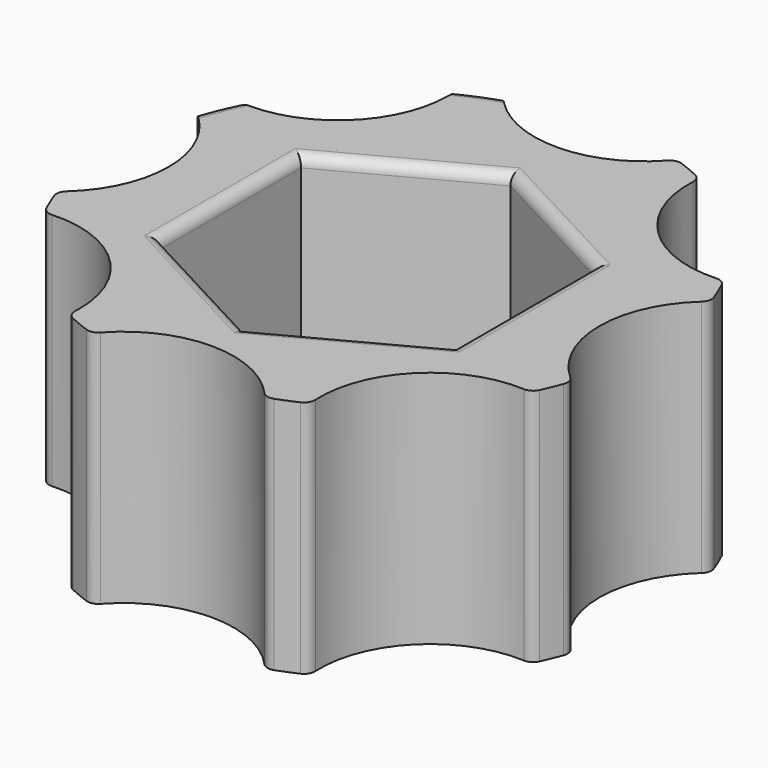
from build123d import *

# Parameters (mm, degrees)
F1_DEPTH = 6.6
F2_R     = 0.3


with BuildPart() as f1:
    # F0 (on Top) → F1 (new body)
    with BuildSketch(Plane.XY):
        with BuildLine():
            ThreePointArc((7.1081944444, -2.3923987418), (5.95, 0), (7.1081944444, 2.3923987418))
            ThreePointArc((7.1081944444, 2.3923987418), (6.9290964938, 2.8701257427), (6.7179338673, 3.33457112))
            ThreePointArc((6.7179338673, 3.33457112), (4.2072853481, 4.2072853481), (3.33457112, 6.7179338673))
            ThreePointArc((3.33457112, 6.7179338673), (2.8701257427, 6.9290964938), (2.3923987418, 7.1081944444))
            ThreePointArc((2.3923987418, 7.1081944444), (0, 5.95), (-2.3923987418, 7.1081944444))
            ThreePointArc((-2.3923987418, 7.1081944444), (-2.8701257427, 6.9290964938), (-3.33457112, 6.7179338673))
            ThreePointArc((-3.33457112, 6.7179338673), (-3.3191179126, 6.5412472011), (-3.3139610307, 6.3639610307))
            ThreePointArc((-3.3139610307, 6.3639610307), (-4.3362920675, 4.0855715609), (-6.7179338673, 3.33457112))
            ThreePointArc((-6.7179338673, 3.33457112), (-6.9290964938, 2.8701257427), (-7.1081944444, 2.3923987418))
            ThreePointArc((-7.1081944444, 2.3923987418), (-6.2547762437, 1.3290020797), (-5.95, 0))
            ThreePointArc((-5.95, 0), (-6.2547762437, -1.3290020797), (-7.1081944444, -2.3923987418))
            ThreePointArc((-7.1081944444, -2.3923987418), (-6.9290964938, -2.8701257427), (-6.7179338673, -3.33457112))
            ThreePointArc((-6.7179338673, -3.33457112), (-4.3362920675, -4.0855715609), (-3.3139610307, -6.3639610307))
            ThreePointArc((-3.3139610307, -6.3639610307), (-3.3191179126, -6.5412472011), (-3.33457112, -6.7179338673))
            ThreePointArc((-3.33457112, -6.7179338673), (-2.8701257427, -6.9290964938), (-2.3923987418, -7.1081944444))
            ThreePointArc((-2.3923987418, -7.1081944444), (0, -5.95), (2.3923987418, -7.1081944444))
            ThreePointArc((2.3923987418, -7.1081944444), (2.8701257427, -6.9290964938), (3.33457112, -6.7179338673))
            ThreePointArc((3.33457112, -6.7179338673), (4.2072853481, -4.2072853481), (6.7179338673, -3.33457112))
            ThreePointArc((6.7179338673, -3.33457112), (6.9290964938, -2.8701257427), (7.1081944444, -2.3923987418))
        make_face()
        Polygon((-4.05, -2.6589224244), (-4.05, 2.1985349579), (0, 4.3609372433), (4.05, 2.1985349579), (4.05, -2.6589224244), (0, -4.8213247098), align=None, mode=Mode.SUBTRACT)
    extrude(amount=F1_DEPTH)

    # F2
    f2_edges = [f1.edges().sort_by_distance(p)[0] for p in [
        (-2.025, 3.279736, 6.6),
        (-4.05, -0.230194, 6.6),
        (-2.025, -3.740124, 6.6),
        (2.025, -3.740124, 6.6),
        (4.05, -0.230194, 6.6),
        (2.025, 3.279736, 6.6),
        (3.334571, 6.717934, 3.3),
        (2.392399, 7.108194, 3.3),
        (6.717934, 3.334571, 3.3),
        (7.108194, 2.392399, 3.3),
        (7.108194, -2.392399, 3.3),
        (6.717934, -3.334571, 3.3),
        (3.334571, -6.717934, 3.3),
        (2.392399, -7.108194, 3.3),
        (-2.392399, -7.108194, 3.3),
        (-3.334571, -6.717934, 3.3),
        (-6.717934, -3.334571, 3.3),
        (-7.108194, -2.392399, 3.3),
        (-6.717934, 3.334571, 3.3),
        (-7.108194, 2.392399, 3.3),
        (-6.929096, 2.870126, 0),
        (-6.929096, 2.870126, 6.6),
        (-2.392399, 7.108194, 3.3),
        (-3.334571, 6.717934, 3.3),
        (-2.870126, 6.929096, 0),
        (-2.870126, 6.929096, 6.6),
    ]]
    fillet(f2_edges, radius=F2_R)


solid = f1.part
